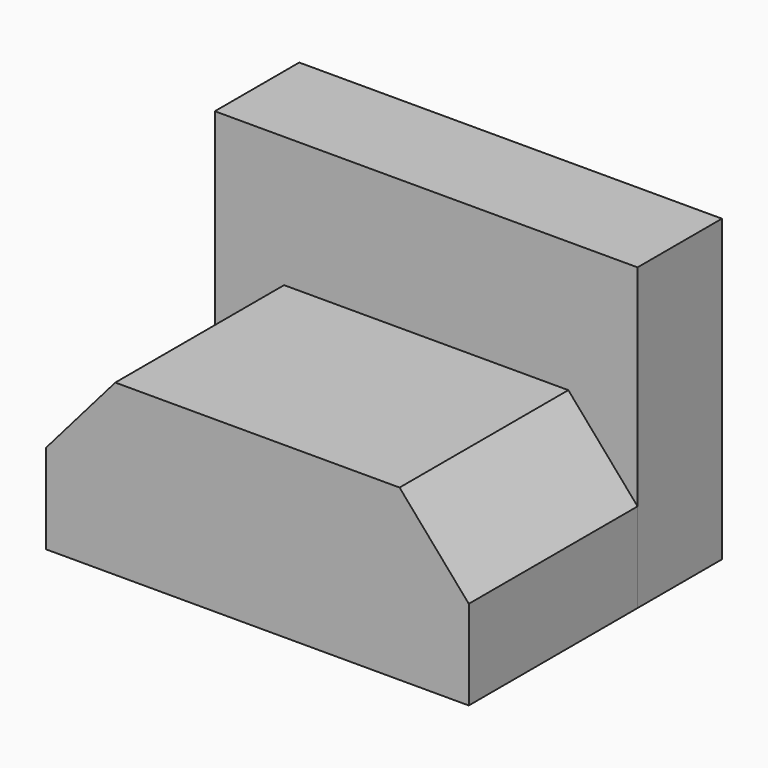
from build123d import *

# Parameters (mm, degrees)
F0_W     = 101.790503
F0_H     = 72.231251
F1_DEPTH = 25.4
F3_DEPTH = 50.8


with BuildPart() as f1:
    # F0 (on Front) → F1 (new body)
    with BuildSketch(Plane.XZ):
        with Locations((0.333376, -4.667251)):
            Rectangle(F0_W, F0_H)
    extrude(amount=-F1_DEPTH)

    # F2 (on face) → F3 (join)
    with BuildSketch(Plane.XZ):
        Polygon((-33.893123, 0), (-50.561875, -19.224625), (-50.561875, -40.782876), (51.228628, -40.782876), (51.228628, -19.224625), (34.559876, 0), align=None)
    extrude(amount=F3_DEPTH)


solid = f1.part
